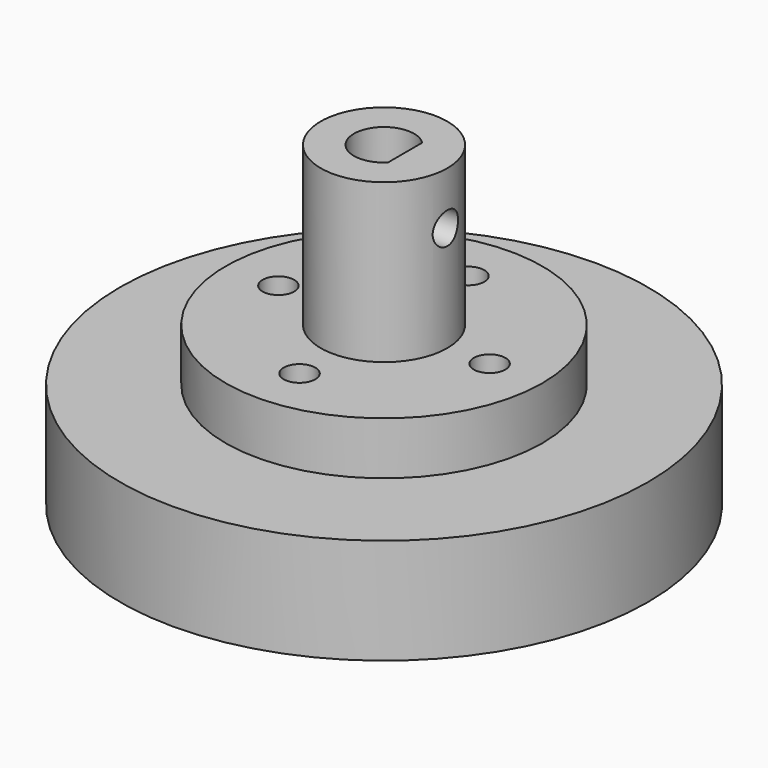
from build123d import *

# Parameters (mm, degrees)
CYLINDER019_R           = 25
CYLINDER019_DEPTH       = 10
CYLINDER018_R           = 1.5
CYLINDER018_DEPTH       = 5
CYLINDER018_PITCH_ANGLE = 90
CYLINDER016_R           = 2.85
CYLINDER016_DEPTH       = 15
BOX002_W                = 11
BOX002_H                = 10
BOX002_DEPTH            = 21
CYLINDER017_R           = 6
CYLINDER017_DEPTH       = 15
CYLINDER004_R           = 1.5
CYLINDER004_DEPTH       = 5
CYLINDER003_R           = 1.5
CYLINDER003_DEPTH       = 5
CYLINDER002_R           = 1.5
CYLINDER002_DEPTH       = 5
CYLINDER001_R           = 1.5
CYLINDER001_DEPTH       = 5
CYLINDER_R              = 15
CYLINDER_DEPTH          = 5


with BuildPart() as cilindro006:
    # Cylinder019 → Cylinder019 (new body)
    with BuildSketch(Plane.XY.offset(-10)):
        Circle(CYLINDER019_R)
    extrude(amount=CYLINDER019_DEPTH)


with BuildPart() as cilindro005:
    # Cylinder018 → Cylinder018 (new body)
    with BuildSketch(Plane.XY):
        Circle(CYLINDER018_R)
    extrude(amount=CYLINDER018_DEPTH)


with BuildPart() as cilindro005_1:
    # Cylinder018 pitch: moved
    add(cilindro005.part.rotate(Axis((0, 0, 0), (0, 1, 0)), CYLINDER018_PITCH_ANGLE))


with BuildPart() as cilindro005_2:
    # Cylinder018 placement: moved
    add(cilindro005_1.part.moved(Location((1.45, 0, 15))))


with BuildPart() as cilindro003:
    # Cylinder016 → Cylinder016 (new body)
    with BuildSketch(Plane(origin=(0, -186, 0), x_dir=(1, 0, 0), z_dir=(0, 0, 1))):
        Circle(CYLINDER016_R)
    extrude(amount=CYLINDER016_DEPTH)


with BuildPart() as cubo001:
    # Box002 → Box002 (new body)
    with BuildSketch(Plane(origin=(2, -191, -2), x_dir=(1, 0, 0), z_dir=(0, 0, 1))):
        with Locations((5.5, 5)):
            Rectangle(BOX002_W, BOX002_H)
    extrude(amount=BOX002_DEPTH)


with BuildPart() as cut006:
    # Cut006 base: copy of Cubo001
    add(cubo001.part)

    # Cut006: cut Cilindro003
    add(cilindro003.part, mode=Mode.SUBTRACT)


with BuildPart() as cut007:
    # Cut005 base: copy of Cilindro003
    add(cilindro003.part)

    # Cut005: cut Cubo001
    add(cubo001.part, mode=Mode.SUBTRACT)

    # Cut007: cut Cut006
    add(cut006.part, mode=Mode.SUBTRACT)


with BuildPart() as cut007_1:
    # Cut007 placement: moved
    add(cut007.part.moved(Location((0, 186, 5))))


with BuildPart() as cut009:
    # Cylinder017 → Cylinder017 (new body)
    with BuildSketch(Plane.XY.offset(5)):
        Circle(CYLINDER017_R)
    extrude(amount=CYLINDER017_DEPTH)

    # Cut008: cut Cut007
    add(cut007_1.part, mode=Mode.SUBTRACT)

    # Cut009: cut Cilindro005
    add(cilindro005_2.part, mode=Mode.SUBTRACT)


with BuildPart() as cylinder004:
    # Cylinder004 → Cylinder004 (new body)
    with BuildSketch(Plane(origin=(0, -10, 0), x_dir=(1, 0, 0), z_dir=(0, 0, 1))):
        Circle(CYLINDER004_R)
    extrude(amount=CYLINDER004_DEPTH)


with BuildPart() as cylinder003:
    # Cylinder003 → Cylinder003 (new body)
    with BuildSketch(Plane(origin=(0, 10, 0), x_dir=(1, 0, 0), z_dir=(0, 0, 1))):
        Circle(CYLINDER003_R)
    extrude(amount=CYLINDER003_DEPTH)


with BuildPart() as cylinder002:
    # Cylinder002 → Cylinder002 (new body)
    with BuildSketch(Plane(origin=(-10, 0, 0), x_dir=(1, 0, 0), z_dir=(0, 0, 1))):
        Circle(CYLINDER002_R)
    extrude(amount=CYLINDER002_DEPTH)


with BuildPart() as cylinder001:
    # Cylinder001 → Cylinder001 (new body)
    with BuildSketch(Plane(origin=(10, 0, 0), x_dir=(1, 0, 0), z_dir=(0, 0, 1))):
        Circle(CYLINDER001_R)
    extrude(amount=CYLINDER001_DEPTH)


with BuildPart() as obj1:
    # Cylinder → Cylinder (new body)
    with BuildSketch(Plane.XY):
        Circle(CYLINDER_R)
    extrude(amount=CYLINDER_DEPTH)

    # Cut: cut Cylinder001
    add(cylinder001.part, mode=Mode.SUBTRACT)

    # Cut001: cut Cylinder002
    add(cylinder002.part, mode=Mode.SUBTRACT)

    # Cut002: cut Cylinder003
    add(cylinder003.part, mode=Mode.SUBTRACT)

    # Cut003: cut Cylinder004
    add(cylinder004.part, mode=Mode.SUBTRACT)

    # Fusion: union Cut009
    add(cut009.part)


solid = Compound([cilindro006.part, obj1.part])
